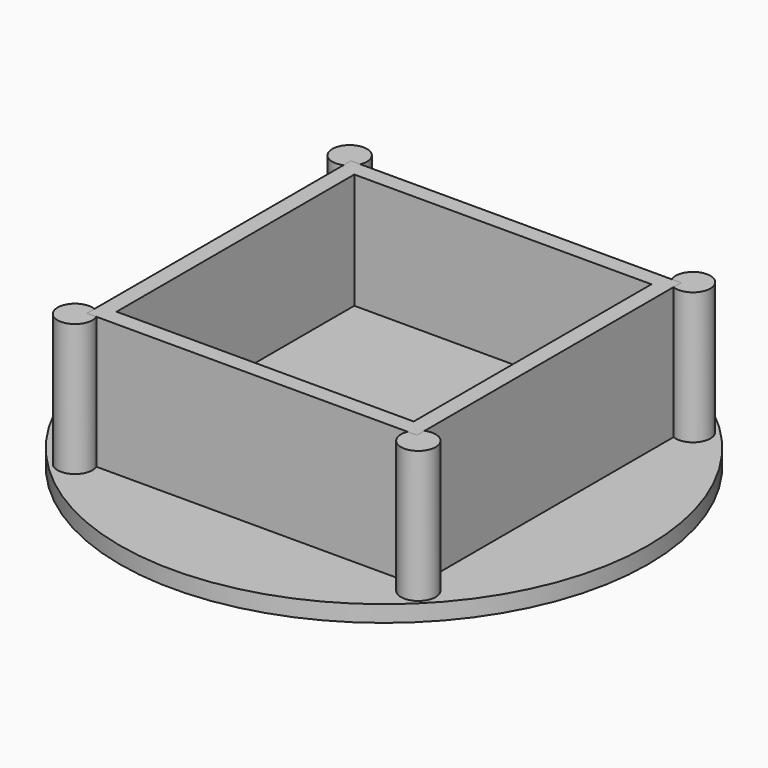
from build123d import *

# Parameters (mm, degrees)
SKETCH_R     = 80
PAD_DEPTH    = 5
SKETCH002_R  = 5.25
PAD002_DEPTH = 40
SKETCH001_W  = 100
SKETCH001_H  = 100
PAD001_DEPTH = 40
SKETCH003_W  = 90
SKETCH003_H  = 90
POCKET_DEPTH = 35


with BuildPart() as pad:
    # Sketch → Pad (new body)
    with BuildSketch(Plane.XY):
        Circle(SKETCH_R)
    extrude(amount=PAD_DEPTH)


with BuildPart() as pad002:
    # Pad002 base: copy of Pad
    add(pad.part)

    # Sketch002 → Pad002 (new body)
    with BuildSketch(Plane.XY.offset(5)):
        with Locations((-52, 52)):
            Circle(SKETCH002_R)
        with Locations((-52, -52)):
            Circle(SKETCH002_R)
        with Locations((52, 52)):
            Circle(SKETCH002_R)
        with Locations((52, -52)):
            Circle(SKETCH002_R)
    extrude(amount=PAD002_DEPTH)


with BuildPart() as pocket:
    # Pad001 base: copy of Pad
    add(pad.part)

    # Sketch001 → Pad001 (new body)
    with BuildSketch(Plane.XY.offset(5)):
        Rectangle(SKETCH001_W, SKETCH001_H)
    extrude(amount=PAD001_DEPTH)

    # Sketch003 → Pocket (cut)
    with BuildSketch(Plane.XY.offset(45)):
        Rectangle(SKETCH003_W, SKETCH003_H)
    extrude(amount=-POCKET_DEPTH, mode=Mode.SUBTRACT)


solid = Compound([pad002.part, pocket.part])
